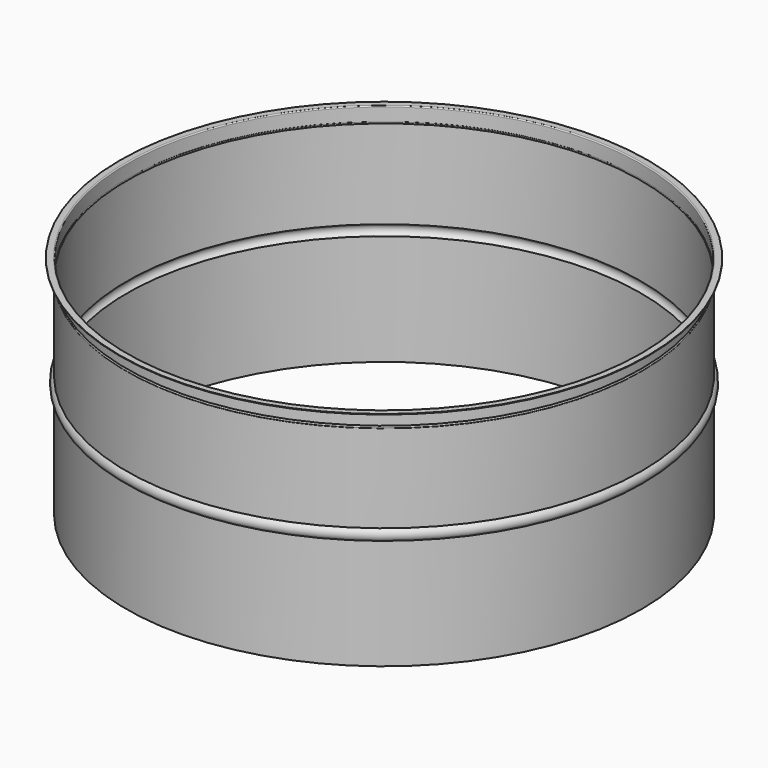
from build123d import *


with BuildPart() as f1:
    # F0 (on Front) → F1 (revolve)
    with BuildSketch(Plane.XZ):
        with BuildLine():
            Line((410, 349.2), (410, 350))
            Line((410, 350), (400.8, 350))
            ThreePointArc((400.8, 350), (399.668629, 349.531371), (399.2, 348.4))
            Line((399.2, 348.4), (399.2, 328.183216))
            ThreePointArc((399.2, 328.183216), (400.2, 327), (399.2, 325.816784))
            Line((399.2, 325.816784), (399.2, 188.185353))
            ThreePointArc((399.2, 188.185353), (404.2, 180), (399.2, 171.814647))
            Line((399.2, 171.814647), (399.2, 0))
            Line((399.2, 0), (400, 0))
            Line((400, 0), (400, 171.339746))
            ThreePointArc((400, 171.339746), (405, 180), (400, 188.660254))
            Line((400, 188.660254), (400, 325.267949))
            ThreePointArc((400, 325.267949), (401, 327), (400, 328.732051))
            Line((400, 328.732051), (400, 348.4))
            ThreePointArc((400, 348.4), (400.234315, 348.965685), (400.8, 349.2))
            Line((400.8, 349.2), (410, 349.2))
        make_face()
    revolve(axis=Axis((0, 0, 175), (0, 0, 1)))


solid = f1.part
